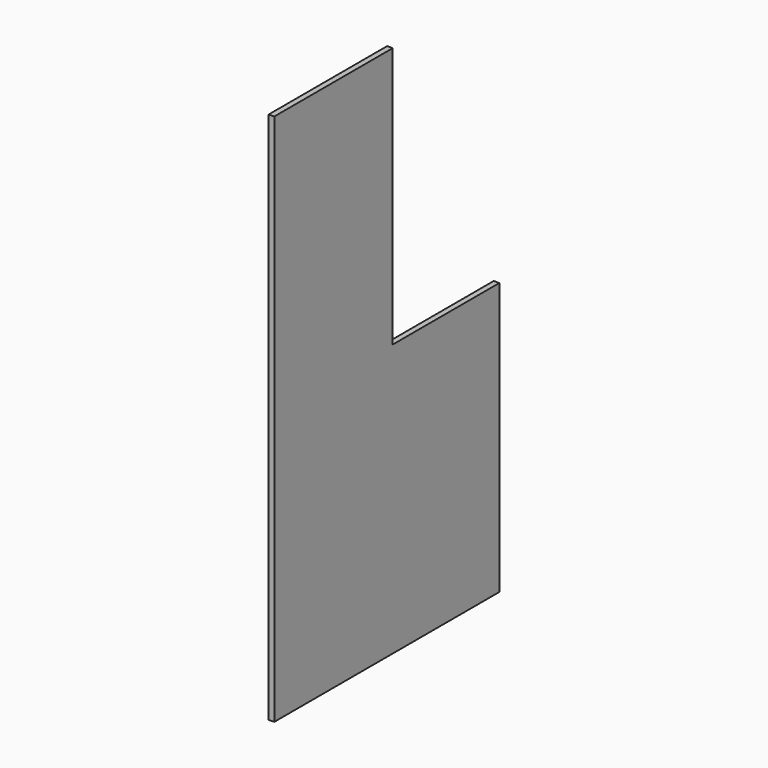
from build123d import *

# Parameters (mm, degrees)
F0_W     = 965.2
F0_H     = 1828.8
F1_DEPTH = 19.05
F2_W     = 457.2
F2_H     = 895.35
F3_DEPTH = 19.051


with BuildPart() as f1:
    # F0 (on Right) → F1 (new body)
    with BuildSketch(Plane.YZ):
        with Locations((482.6, 914.4)):
            Rectangle(F0_W, F0_H)
    extrude(amount=F1_DEPTH)

    # F2 (on face) → F3 (cut, through all)
    with BuildSketch(Plane.YZ.offset(19.05)):
        with Locations((736.6, 1381.125)):
            Rectangle(F2_W, F2_H)
    extrude(amount=-F3_DEPTH, mode=Mode.SUBTRACT)


solid = f1.part
